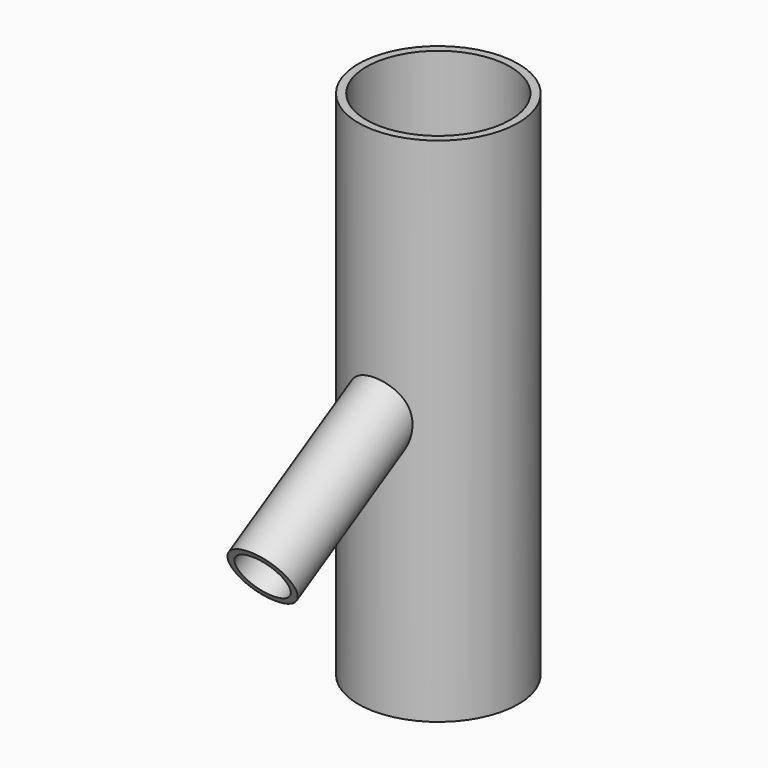
from build123d import *

# Parameters (mm, degrees)
F0_R     = 25
F0_R_2   = 22.5
F1_DEPTH = 80
F5_R     = 10.2
F5_R_2   = 8.2
F6_DEPTH = 50


with BuildPart() as f1:
    # F0 (on Top) → F1 (new body, symmetric)
    with BuildSketch(Plane.XY):
        Circle(F0_R)
        Circle(F0_R_2, mode=Mode.SUBTRACT)
    extrude(amount=F1_DEPTH, both=True)

    # F5 (on offset) → F6 (join, symmetric)
    with BuildSketch(Plane(origin=(0, -19.0525588833, -11), x_dir=(-1, 0, 0), z_dir=(0, 0.8660254038, 0.5))):
        with Locations((0, 12.6419905573)):
            Circle(F5_R)
        with Locations((0, 12.6419905573)):
            Circle(F5_R_2, mode=Mode.SUBTRACT)
    extrude(amount=F6_DEPTH, both=True)


solid = f1.part
